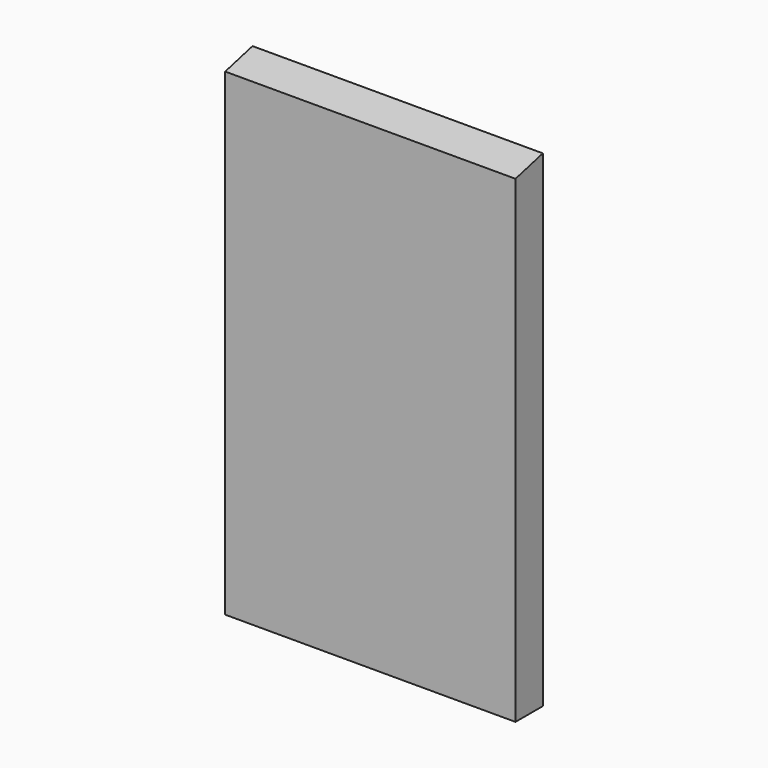
from build123d import *

# Parameters (mm, degrees)
F0_W     = 170
F0_H     = 285
F1_DEPTH = 10
F3_DEPTH = 170.001
F5_ANGLE = 90


with BuildPart() as f1:
    # F0 (on Top) → F1 (new body, symmetric)
    with BuildSketch(Plane.XY):
        Rectangle(F0_W, F0_H)
    extrude(amount=F1_DEPTH, both=True)

    # F2 (on face) → F3 (cut, through all)
    with BuildSketch(Plane(origin=(-85, 0, 0), x_dir=(0, -1, 0), z_dir=(-1, 0, 0))):
        Polygon((-142.5, -10), (-137.5, 10), (-142.5, 10), align=None)
    extrude(amount=-F3_DEPTH, mode=Mode.SUBTRACT)


with BuildPart() as f1_1:
    # F5: moved
    add(f1.part.rotate(Axis((66.870868, 0, 0), (1, 0, 0)), F5_ANGLE))


solid = f1_1.part
